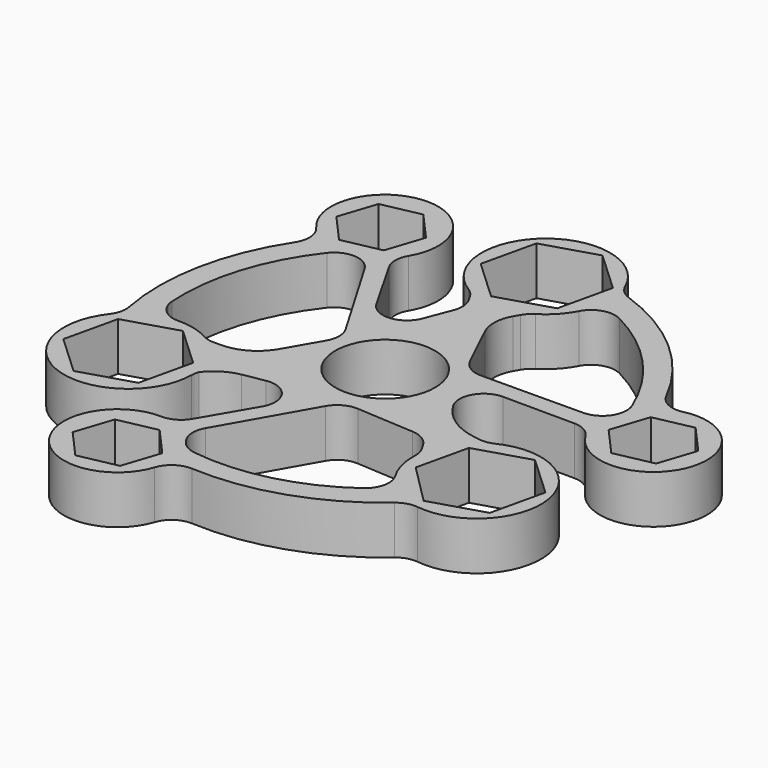
from build123d import *

# Parameters (mm, degrees)
F0_R     = 10.3354497049
F1_DEPTH = 10


with BuildPart() as f1:
    # F0 (on Top) → F1 (new body)
    with BuildSketch(Plane.XY):
        with BuildLine():
            ThreePointArc((26.0476715205, -9.5277688633), (20.5866821195, -7.4048691039), (16.5865343387, -3.1237563563))
            ThreePointArc((16.5865343387, -3.1237563563), (16.6143313263, 1.8736112558), (20.9546162977, 4.350783452))
            Line((20.9546162977, 4.350783452), (35.7516345046, 4.2815737703))
            ThreePointArc((35.7516345046, 4.2815737703), (38.1912718914, 3.6328944013), (40.0030732107, 1.875057241))
            ThreePointArc((40.0030732107, 1.875057241), (59.6888453726, 3.3154186125), (46.9838539695, 18.4212936265))
            ThreePointArc((46.9838539695, 18.4212936265), (43.7332768295, 18.7671729362), (41.391113059, 21.0475573584))
            ThreePointArc((41.391113059, 21.0475573584), (30.4913773374, 35.1718790284), (15.1030881654, 44.199683734))
            ThreePointArc((15.1030881654, 44.199683734), (13.3602329953, 45.2544090168), (12.1827503516, 46.9167941077))
            ThreePointArc((12.1827503516, 46.9167941077), (-8.7169198304, 51.6376390641), (-6.9602796681, 30.2835573428))
            ThreePointArc((-6.9602796681, 30.2835573428), (-5.9948536036, 29.5104843528), (-5.2487236207, 28.52408718))
            Line((-5.2487236207, 28.52408718), (-4.5951623795, 27.3920859044))
            ThreePointArc((-4.5951623795, 27.3920859044), (-3.9403401472, 25.2797467908), (-4.2607272631, 23.0915692881))
            Line((-4.2607272631, 23.0915692881), (-6.3719962821, 17.6219471616))
            ThreePointArc((-6.3719962821, 17.6219471616), (-10.6605564778, 14.4366215681), (-15.3783311249, 16.9427440847))
            Line((-15.3783311249, 16.9427440847), (-21.8734443287, 28.3151202921))
            ThreePointArc((-21.8734443287, 28.3151202921), (-22.531440873, 30.8428756983), (-21.8249990194, 33.3575221452))
            ThreePointArc((-21.8249990194, 33.3575221452), (-32.3826009658, 50.070876996), (-39.625901643, 31.6770251828))
            ThreePointArc((-39.625901643, 31.6770251828), (-38.3773400055, 28.7239903076), (-39.1790717552, 25.619711432))
            ThreePointArc((-39.1790717552, 25.619711432), (-45.9266907543, 9.0613660016), (-45.9738489372, -8.8189847124))
            ThreePointArc((-45.9738489372, -8.8189847124), (-46.0225178396, -10.9283689132), (-46.9369511167, -12.8298636279))
            ThreePointArc((-46.9369511167, -12.8298636279), (-40.8714994553, -33.5184892265), (-23.1566713845, -21.2305357989))
            ThreePointArc((-23.1566713845, -21.2305357989), (-23.0733624914, -20.408634033), (-22.8558581112, -19.6116680808))
            ThreePointArc((-22.8558581112, -19.6116680808), (-20.2416339534, -17.248733359), (-16.9474626281, -15.9973086803))
            Line((-16.9474626281, -15.9973086803), (-12.5698108847, -15.2138142303))
            ThreePointArc((-12.5698108847, -15.2138142303), (-7.5901456855, -17.2720461747), (-7.3705416357, -22.6558327877))
            Line((-7.3705416357, -22.6558327877), (-13.4673451749, -33.1026572937))
            ThreePointArc((-13.4673451749, -33.1026572937), (-15.3433779099, -34.9453329591), (-17.8949610773, -35.5812384318))
            ThreePointArc((-17.8949610773, -35.5812384318), (-27.1947516812, -53.0465292991), (-7.6201577031, -50.1555500621))
            ThreePointArc((-7.6201577031, -50.1555500621), (-5.6870353017, -47.5977465283), (-2.5977850601, -46.7399271527))
            ThreePointArc((-2.5977850601, -46.7399271527), (14.979861549, -44.3505696179), (30.4063859475, -35.5924285638))
            ThreePointArc((30.4063859475, -35.5924285638), (32.226193311, -34.6022844585), (34.2911475267, -34.4348082622))
            ThreePointArc((34.2911475267, -34.4348082622), (49.1043559344, -19.1319266108), (30.223953434, -9.2759775653))
            ThreePointArc((30.223953434, -9.2759775653), (28.8084467622, -9.7132375899), (27.326945928, -9.7165155971))
            Line((27.326945928, -9.7165155971), (26.0476715205, -9.5277688633))
        make_face()
        Polygon((-25.6983195519, -48.8112031808), (-23.1400125477, -41.0882104714), (-15.1725511659, -39.442272973), (-9.7633967884, -45.5193281841), (-12.3217037926, -53.2423208936), (-20.2891651744, -54.888258392), align=None, mode=Mode.SUBTRACT)
        Polygon((-25.6526473767, -17.6703529021), (-28.1761860468, -28.6749401878), (-38.9682075294, -31.991785235), (-47.2366903419, -24.3040429964), (-44.7131516719, -13.2994557107), (-33.9211301893, -9.9826106636), align=None, mode=Mode.SUBTRACT)
        with BuildLine():
            ThreePointArc((17.1464472205, -14.3181778051), (19.6097516752, -15.0995212956), (21.4092604692, -16.9542812764))
            Line((21.4092604692, -16.9542812764), (22.0381273172, -18.0435106083))
            ThreePointArc((22.0381273172, -18.0435106083), (22.5618213465, -19.3433351078), (22.7042381867, -20.7374357532))
            ThreePointArc((22.7042381867, -20.7374357532), (23.1173853103, -24.5798156567), (24.6184803157, -28.1408952196))
            ThreePointArc((24.6184803157, -28.1408952196), (25.2428792275, -31.7249542816), (23.2729013133, -34.7834735932))
            ThreePointArc((23.2729013133, -34.7834735932), (9.419684867, -41.2411709688), (-5.8406517441, -42.0988351334))
            ThreePointArc((-5.8406517441, -42.0988351334), (-7.725446025, -41.4431302055), (-9.2036800008, -40.1025248397))
            ThreePointArc((-9.2036800008, -40.1025248397), (-9.295625501, -39.9790891343), (-9.3892764279, -39.8569422871))
            ThreePointArc((-9.3892764279, -39.8569422871), (-10.4294976001, -37.1481783868), (-9.7902204963, -34.3178450603))
            Line((-9.7902204963, -34.3178450603), (0.5477905756, -16.116209429))
            ThreePointArc((0.5477905756, -16.116209429), (2.5119825197, -14.1902261445), (5.1976512462, -13.5947052828))
            Line((5.1976512462, -13.5947052828), (17.1464472205, -14.3181778051))
        make_face(mode=Mode.SUBTRACT)
        with BuildLine():
            Line((16.6011031737, -3.1491618567), (16.5626926236, -3.0826328324))
            ThreePointArc((16.5626926236, -3.0826328324), (16.574594931, -3.103205349), (16.5865343387, -3.1237563563))
            ThreePointArc((16.5865343387, -3.1237563563), (16.5938001553, -3.1364697732), (16.6011031737, -3.1491618567))
        make_face(mode=Mode.SUBTRACT)
        Polygon((44.4996077616, -28.8073727903), (33.6737244283, -32.1346250176), (25.3656168325, -23.8068915105), (27.8220380789, -13.0949882861), (38.8145774711, -9.7165155971), (47.2366903419, -17.5470976183), (44.7015978404, -28.6020685768), (44.6662638205, -28.7561523286), align=None, mode=Mode.SUBTRACT)
        with BuildLine():
            ThreePointArc((-17.8096832999, -5.2424840404), (-21.2796968224, -8.7124975629), (-26.0198234456, -9.9826106636))
            Line((-26.0198234456, -9.9826106636), (-27.5911085786, -9.9826106636))
            ThreePointArc((-27.5911085786, -9.9826106636), (-28.8409335841, -9.8238850264), (-30.0114068814, -9.3577856459))
            ThreePointArc((-30.0114068814, -9.3577856459), (-33.2357643816, -8.090181928), (-36.6781903014, -7.6990243375))
            ThreePointArc((-36.6781903014, -7.6990243375), (-40.152524922, -6.3783493463), (-41.7554658188, -3.0248789097))
            ThreePointArc((-41.7554658188, -3.0248789097), (-39.9512896461, 12.2753331327), (-32.80623714, 25.9245003194))
            ThreePointArc((-32.80623714, 25.9245003194), (-28.5358777475, 27.8291904256), (-24.5583425883, 25.3709333601))
            Line((-24.5583425883, 25.3709333601), (-13.7204299658, 6.9015986867))
            ThreePointArc((-13.7204299658, 6.9015986867), (-13.0328237883, 4.3887357815), (-13.7026655941, 1.8710792937))
            Line((-13.7026655941, 1.8710792937), (-17.8096832999, -5.2424840404))
        make_face(mode=Mode.SUBTRACT)
        Circle(F0_R, mode=Mode.SUBTRACT)
        Polygon((-23.6072220849, 40.0795913092), (-26.1655290892, 32.3565985997), (-34.132990471, 30.7106611014), (-39.5421448485, 36.7877163125), (-36.9838378442, 44.510709022), (-29.0163764624, 46.1566465203), align=None, mode=Mode.SUBTRACT)
        Polygon((2.5704265214, 53.060195325), (10.9925393922, 45.2296133038), (8.4221128708, 34.0205585935), (-2.5704265214, 30.6420859044), (-10.9925393922, 38.4726679257), (-8.4221128708, 49.6817226359), align=None, mode=Mode.SUBTRACT)
        with BuildLine():
            ThreePointArc((4.3285128423, 20.4325643906), (3.6004962361, 23.9453268817), (4.5951623795, 27.3920859044))
            Line((4.5951623795, 27.3920859044), (5.2487236207, 28.52408718))
            ThreePointArc((5.2487236207, 28.52408718), (5.9948536036, 29.5104843528), (6.9602796681, 30.2835573428))
            ThreePointArc((6.9602796681, 30.2835573428), (9.71050055, 32.5314875149), (11.7670884139, 35.4275799367))
            ThreePointArc((11.7670884139, 35.4275799367), (14.6903203036, 37.8718936539), (18.4869211069, 37.5466605538))
            ThreePointArc((18.4869211069, 37.5466605538), (30.8412464649, 28.1036186684), (39.1761724906, 14.9761892458))
            ThreePointArc((39.1761724906, 14.9761892458), (38.7132835477, 10.307822352), (34.5859321139, 8.0778255422))
            Line((34.5859321139, 8.0778255422), (13.5057011722, 7.9289416207))
            ThreePointArc((13.5057011722, 7.9289416207), (10.8213953927, 8.6881995171), (8.9616649904, 10.7674717221))
            Line((8.9616649904, 10.7674717221), (4.3285128423, 20.4325643906))
        make_face(mode=Mode.SUBTRACT)
        with BuildLine():
            Line((54.8872223768, 1.5462432454), (46.919760995, -0.099694253))
            ThreePointArc((46.919760995, -0.099694253), (46.8658270284, -0.0816186896), (46.8120207581, -0.0631664804))
            ThreePointArc((46.8120207581, -0.0631664804), (46.8120586965, -0.020929805), (46.8120585264, 0.0213068875))
            Line((46.8120585264, 0.0213068875), (41.5106066175, 5.9773609582))
            Line((41.5106066175, 5.9773609582), (44.0689136218, 13.7003536676))
            Line((44.0689136218, 13.7003536676), (52.0363750036, 15.346291166))
            Line((52.0363750036, 15.346291166), (57.4455293811, 9.2692359549))
            Line((57.4455293811, 9.2692359549), (54.8872223768, 1.5462432454))
        make_face(mode=Mode.SUBTRACT)
        with BuildLine():
            ThreePointArc((16.5865343387, -3.1237563563), (16.574594931, -3.103205349), (16.5626926236, -3.0826328324))
            Line((16.5626926236, -3.0826328324), (16.6011031737, -3.1491618567))
            ThreePointArc((16.6011031737, -3.1491618567), (16.5938001553, -3.1364697732), (16.5865343387, -3.1237563563))
        make_face()
    extrude(amount=F1_DEPTH)


solid = f1.part
